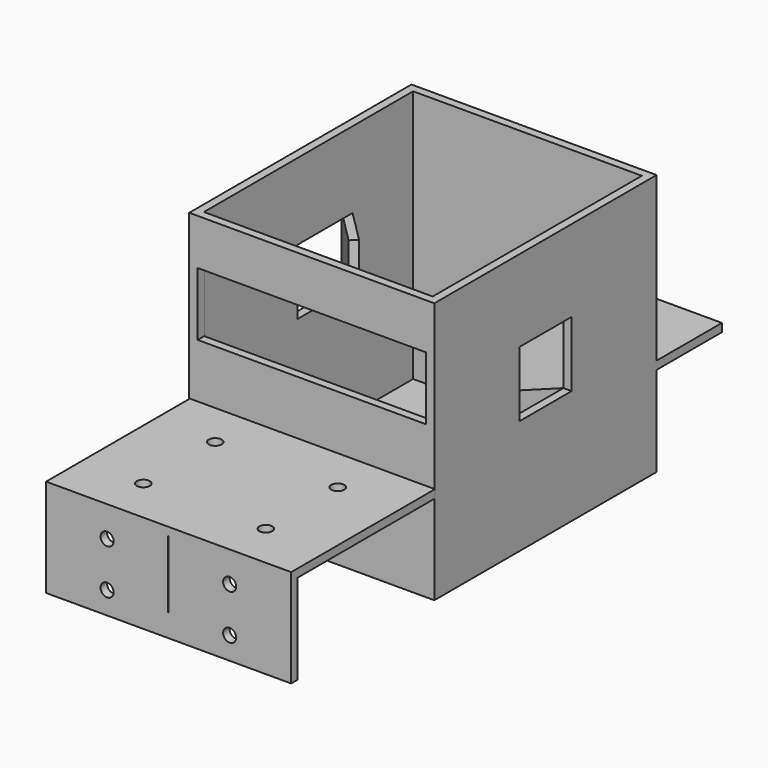
from build123d import *

# Parameters (mm, degrees)
F0_W      = 75
F0_H      = 85
F1_DEPTH  = 80
F2_T      = -2.5
F3_W      = 69.8
F3_H      = 19.372474
F4_DEPTH  = 2.5
F5_W      = 20
F5_H      = 20
F6_DEPTH  = 85
F7_W      = 20
F7_H      = 20
F8_DEPTH  = 40
F13_DEPTH = 2.5
F15_W     = 15
F15_H     = 20
F16_DEPTH = 2.5
F18_W     = 15
F18_H     = 20
F19_DEPTH = 2.5
F14_W     = 37.300386
F14_H     = 27.5
F20_DEPTH = 2.5
F22_DEPTH = 2.5
F24_D     = 4
F26_D     = 4
F26_DEPTH = 12
F28_D     = 4
F28_DEPTH = 12
F30_D     = 4
F30_DEPTH = 12


with BuildPart() as f1:
    # F0 (on Top) → F1 (new body)
    with BuildSketch(Plane.XY):
        Rectangle(F0_W, F0_H)
    extrude(amount=F1_DEPTH)

    # F2
    f2_openings = [f1.faces().sort_by_distance(p)[0] for p in [
        (0, 0, 80),
    ]]
    offset(amount=F2_T, openings=f2_openings)

    # F3 (on face) → F4 (cut)
    with BuildSketch(Plane.XZ.offset(42.5)):
        with Locations((0, 56.275258)):
            Rectangle(F3_W, F3_H)
    extrude(amount=-F4_DEPTH, mode=Mode.SUBTRACT)

    # F5 (on Right) → F6 (cut)
    with BuildSketch(Plane.YZ):
        with Locations((5.816684, 46.624789)):
            Rectangle(F5_W, F5_H)
    extrude(amount=-F6_DEPTH, mode=Mode.SUBTRACT)

    # F7 (on Right) → F8 (cut)
    with BuildSketch(Plane.YZ):
        with Locations((0, 45)):
            Rectangle(F7_W, F7_H)
    extrude(amount=F8_DEPTH, mode=Mode.SUBTRACT)

    # F12 (on face) → F13 (join)
    with BuildSketch(Plane.XY.offset(27.5)):
        Polygon((37.699614, -42.5), (0.199614, -42.5), (-37.300386, -42.5), (-37.300386, -95), (37.699614, -95), align=None)
    extrude(amount=F13_DEPTH)

    # F15 (on face) → F16 (join)
    with BuildSketch(Plane(origin=(12.5, -12.5, 0), x_dir=(-0.707107, -0.707107, 0), z_dir=(-0.707107, 0.707107, 0))):
        with Locations((-26.087572, 45)):
            Rectangle(F15_W, F15_H)
    extrude(amount=F16_DEPTH)

    # F18 (on face) → F19 (join)
    with BuildSketch(Plane(origin=(-10.841658, -10.841658, 0), x_dir=(-0.707107, 0.707107, 0), z_dir=(0.707107, 0.707107, 0))):
        with Locations((30.200588, 46.624789)):
            Rectangle(F18_W, F18_H)
    extrude(amount=F19_DEPTH)

    # F14 (on face) → F20 (join)
    with BuildSketch(Plane.XZ.offset(95)):
        with Locations((-18.650193, 13.75)):
            Rectangle(F14_W, F14_H)
        Polygon((37.699614, 27.5), (0.199614, 27.5), (0.042772, 0), (37.699614, 0), align=None)
        Polygon((0, 27.5), (0.199614, 27.5), (37.699614, 27.5), (37.699614, 30), (-37.300386, 30), (-37.300386, 27.5), align=None)
    extrude(amount=F20_DEPTH)

    # F21 (on face) → F22 (join)
    with BuildSketch(Plane.XY.offset(27.5)):
        Polygon((-37.5, 42.5), (0, 42.5), (37.5, 42.5), (37.5, 67.5), (-37.5, 67.5), align=None)
    extrude(amount=F22_DEPTH)

    # F24 (through all)
    with Locations(Plane.XY.offset(30)):
        with Locations((-18.75, 55), (18.75, 55)):
            Hole(F24_D / 2)

    # F26
    with Locations(Plane.XZ.offset(97.5)):
        with Locations((-18.628502, 20.623931), (-18.628502, 6.874867), (18.871193, 6.874867), (18.871193, 20.623931)):
            Hole(F26_D / 2, depth=F26_DEPTH)

    # F28
    with Locations(Plane.XY.offset(30)):
        with Locations((-18.550386, -56.25), (18.949614, -56.25), (18.949614, -83.75), (-18.550386, -83.75)):
            Hole(F28_D / 2, depth=F28_DEPTH)

    # F30
    with Locations(Plane.XY.offset(2.5)):
        with Locations((-17.5, 20), (17.5, 20), (-17.5, -20), (17.5, -20)):
            Hole(F30_D / 2, depth=F30_DEPTH)


solid = f1.part
